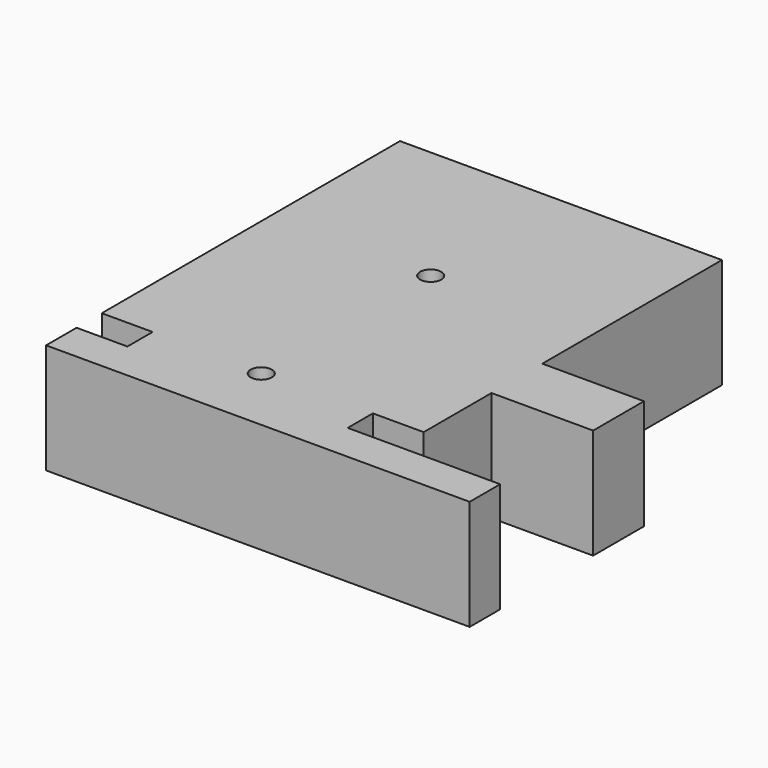
from build123d import *

# Parameters (mm, degrees)
F0_R     = 2.5
F1_DEPTH = 26
F3_D     = 5
F3_DEPTH = 15
F3_TIP   = 1.5021515476


with BuildPart() as f1:
    # F0 (on Top) → F1 (new body)
    with BuildSketch(Plane.XY):
        Polygon((-38.0000000003, -9.0000000003), (62, -9.0000000003), (62, 0), (26, 0), (26, 7.4289727622), (38, 7.4289727622), (38, 27.4289727622), (62, 27.4289727622), (62, 42.428972762), (38.0000000005, 42.428972762), (38.0000000005, 95.428972762), (-37.9999999997, 95.428972762), (-37.9999999997, 7.4289727622), (-26, 7.4289727622), (-26, 0), (-38.0000000003, 0), align=None)
        with Locations((0, 7)):
            Circle(F0_R, mode=Mode.SUBTRACT)
        with Locations((0, 57)):
            Circle(F0_R, mode=Mode.SUBTRACT)
    extrude(amount=F1_DEPTH)

    # F3
    with Locations(Plane(origin=(0, 0, 0), x_dir=(1, 0, 0), z_dir=(0, 0, -1))):
        with Locations((-24.9999999997, -25.428972762), (3e-10, -75.428972762), (-24.9999999997, -75.428972762), (-24.9999999997, -50.428972762), (25.0000000003, -50.428972762), (3e-10, -50.428972762), (25.0000000003, -75.428972762), (3e-10, -25.428972762), (25.0000000003, -25.428972762)):
            Hole(F3_D / 2, depth=F3_DEPTH)
            with Locations((0, 0, -(F3_DEPTH + F3_TIP / 2))):  # 118° drill point
                Cone(0, F3_D / 2, F3_TIP, mode=Mode.SUBTRACT)


solid = f1.part
